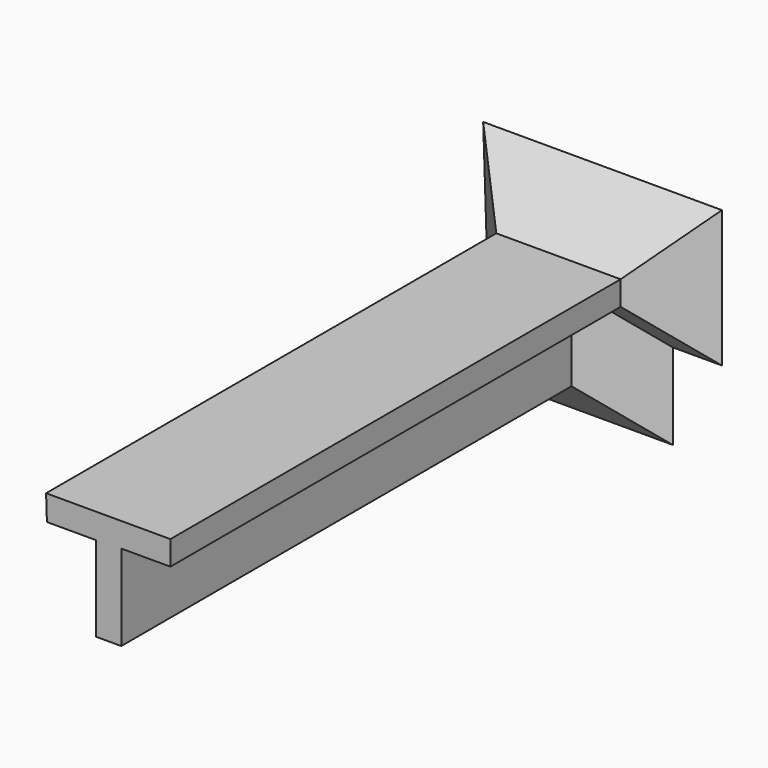
from build123d import *

# Parameters (mm, degrees)
F1_DEPTH = 150
F3_DEPTH = 15
F3_TAPER = -45


with BuildPart() as f1:
    # F0 (on Front) → F1 (new body)
    with BuildSketch(Plane.XZ):
        Polygon((16.4764662622, 10.6293191202), (-16.6578079225, 10.6293191202), (-16.4379915805, 3.9366264828), (-3.308858315, 3.9366264828), (-3.308858315, -18.7284196727), (3.3802918042, -18.7284196727), (3.3802918042, 4.1624740697), (16.4764662622, 4.1624740697), align=None)
    extrude(amount=F1_DEPTH)

    # F2 (on face) → F3 (join)
    with BuildSketch(Plane(origin=(0, 0, 0), x_dir=(-1, 0, 0), z_dir=(0, 1, 0))):
        Polygon((16.4379915805, 3.9366264828), (16.6578079225, 10.6293191202), (-16.4764662622, 10.6293191202), (-16.4764662622, 4.1624740697), (-3.3802918042, 4.1624740697), (-3.3802918042, -18.7284196727), (3.308858315, -18.7284196727), (3.308858315, 3.9366264828), align=None)
    extrude(amount=F3_DEPTH, taper=F3_TAPER)


solid = f1.part
